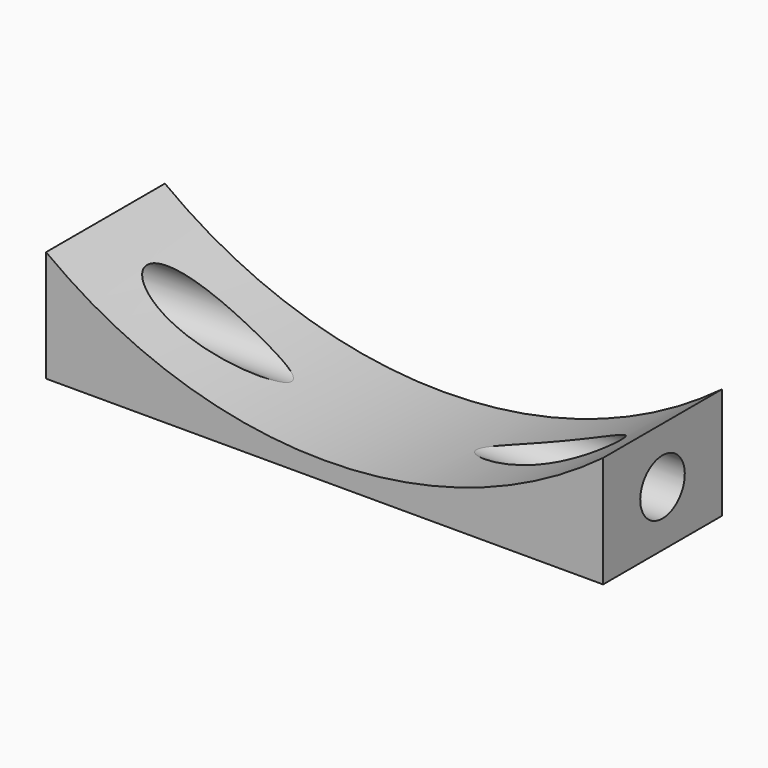
from build123d import *

# Parameters (mm, degrees)
CYLINDER2792_R     = 1.5
CYLINDER2792_DEPTH = 64
CYLINDER2791_R     = 38
CYLINDER2791_DEPTH = 30
BOX975_W           = 2
BOX975_H           = 6
BOX975_DEPTH       = 6
BOX976_W           = 2
BOX976_H           = 6
BOX976_DEPTH       = 6
BOX977_W           = 2
BOX977_H           = 6
BOX977_DEPTH       = 6
BOX978_W           = 2
BOX978_H           = 6
BOX978_DEPTH       = 6
BOX979_W           = 2
BOX979_H           = 6
BOX979_DEPTH       = 6
BOX981_W           = 2
BOX981_H           = 6
BOX981_DEPTH       = 6
TUBE137_R          = 21
TUBE137_R_2        = 2
TUBE137_DEPTH      = 64
TUBE138_R          = 25
TUBE138_R_2        = 2
TUBE138_DEPTH      = 26
BOX980_W           = 30
BOX980_H           = 64
BOX980_DEPTH       = 18
BOX974_W           = 30
BOX974_H           = 8
BOX974_DEPTH       = 18


with BuildPart() as obj1:
    # Cylinder2792 → Cylinder2792 (new body)
    with BuildSketch(Plane(origin=(-26, -13, 14), x_dir=(0, 0, -1), z_dir=(1, 0, 0))):
        Circle(CYLINDER2792_R)
    extrude(amount=CYLINDER2792_DEPTH)


with BuildPart() as obj2:
    # Cylinder2791 → Cylinder2791 (new body)
    with BuildSketch(Plane.XY):
        Circle(CYLINDER2791_R)
    extrude(amount=CYLINDER2791_DEPTH)


with BuildPart() as krychle974:
    # Box975 → Box975 (new body)
    with BuildSketch(Plane(origin=(-12, -4, 10), x_dir=(1, 0, 0), z_dir=(0, 0, 1))):
        with Locations((1, 3)):
            Rectangle(BOX975_W, BOX975_H)
    extrude(amount=BOX975_DEPTH)


with BuildPart() as krychle975:
    # Box976 → Box976 (new body)
    with BuildSketch(Plane(origin=(10, 26, 10), x_dir=(1, 0, 0), z_dir=(0, 0, 1))):
        with Locations((1, 3)):
            Rectangle(BOX976_W, BOX976_H)
    extrude(amount=BOX976_DEPTH)


with BuildPart() as krychle976:
    # Box977 → Box977 (new body)
    with BuildSketch(Plane(origin=(-12, 26, 10), x_dir=(1, 0, 0), z_dir=(0, 0, 1))):
        with Locations((1, 3)):
            Rectangle(BOX977_W, BOX977_H)
    extrude(amount=BOX977_DEPTH)


with BuildPart() as krychle977:
    # Box978 → Box978 (new body)
    with BuildSketch(Plane(origin=(10, 12, 10), x_dir=(1, 0, 0), z_dir=(0, 0, 1))):
        with Locations((1, 3)):
            Rectangle(BOX978_W, BOX978_H)
    extrude(amount=BOX978_DEPTH)


with BuildPart() as krychle978:
    # Box979 → Box979 (new body)
    with BuildSketch(Plane(origin=(-12, 12, 10), x_dir=(1, 0, 0), z_dir=(0, 0, 1))):
        with Locations((1, 3)):
            Rectangle(BOX979_W, BOX979_H)
    extrude(amount=BOX979_DEPTH)


with BuildPart() as compound1243:
    # Box981 → Box981 (new body)
    with BuildSketch(Plane(origin=(10, -4, 10), x_dir=(1, 0, 0), z_dir=(0, 0, 1))):
        with Locations((1, 3)):
            Rectangle(BOX981_W, BOX981_H)
    extrude(amount=BOX981_DEPTH)

    # Compound1243: union Krychle974, Krychle975, Krychle976, Krychle977, Krychle978
    add(krychle974.part)
    add(krychle975.part)
    add(krychle976.part)
    add(krychle977.part)
    add(krychle978.part)


with BuildPart() as tube137:
    # Tube137 → Tube137 (new body)
    with BuildSketch(Plane(origin=(0, 61, 37), x_dir=(1, 0, 0), z_dir=(0, -1, 0))):
        Circle(TUBE137_R)
        Circle(TUBE137_R_2, mode=Mode.SUBTRACT)
    extrude(amount=TUBE137_DEPTH)


with BuildPart() as tube138:
    # Tube138 → Tube138 (new body)
    with BuildSketch(Plane(origin=(0, -3, 37), x_dir=(1, 0, 0), z_dir=(0, -1, 0))):
        Circle(TUBE138_R)
        Circle(TUBE138_R_2, mode=Mode.SUBTRACT)
    extrude(amount=TUBE138_DEPTH)


with BuildPart() as common007:
    # Box980 → Box980 (new body)
    with BuildSketch(Plane(origin=(-15, -17, 11), x_dir=(1, 0, 0), z_dir=(0, 0, 1))):
        with Locations((15, 32)):
            Rectangle(BOX980_W, BOX980_H)
    extrude(amount=BOX980_DEPTH)

    # Cut1049: cut Tube138
    add(tube138.part, mode=Mode.SUBTRACT)

    # Cut1050: cut Tube137
    add(tube137.part, mode=Mode.SUBTRACT)

    # Cut1051: cut Compound1243
    add(compound1243.part, mode=Mode.SUBTRACT)

    # Common007: intersect obj2
    add(obj2.part, mode=Mode.INTERSECT)


with BuildPart() as cut1052:
    # Box974 → Box974 (new body)
    with BuildSketch(Plane(origin=(-15, -17, 11), x_dir=(1, 0, 0), z_dir=(0, 0, 1))):
        with Locations((15, 4)):
            Rectangle(BOX974_W, BOX974_H)
    extrude(amount=BOX974_DEPTH)

    # Common008: intersect Common007
    add(common007.part, mode=Mode.INTERSECT)

    # Cut1052: cut obj1
    add(obj1.part, mode=Mode.SUBTRACT)


solid = cut1052.part
